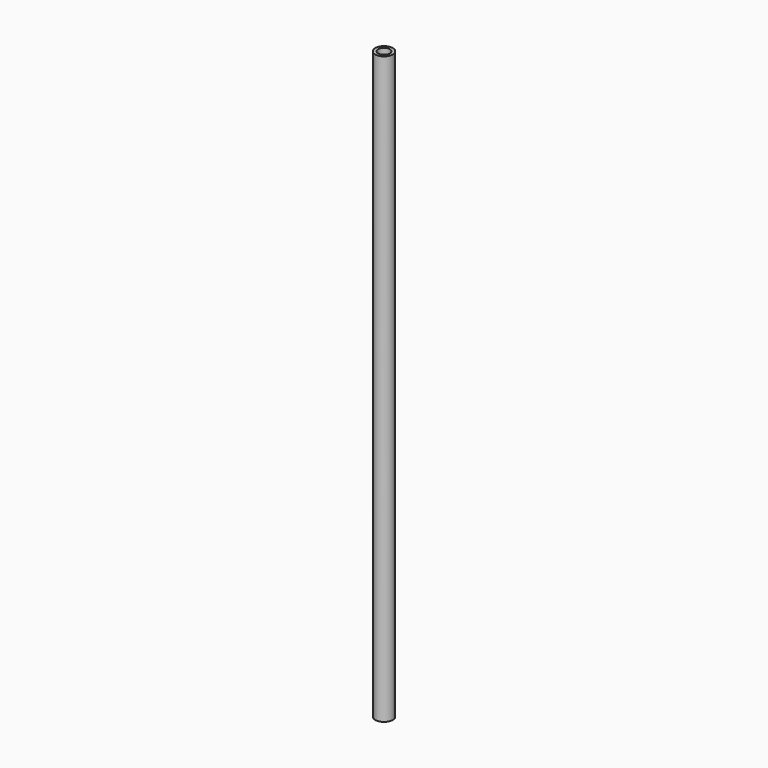
from build123d import *

# Parameters (mm, degrees)
CYLINDER_R     = 15
CYLINDER_DEPTH = 1000
THICKNESS_T    = -5


with BuildPart() as part:
    # Cylinder → Cylinder (new body)
    with BuildSketch(Plane.XY):
        Circle(CYLINDER_R)
    extrude(amount=CYLINDER_DEPTH)

    # Thickness
    thickness_openings = [part.faces().sort_by_distance(p)[0] for p in [
        (0, 0, 1000),
        (0, 0, 0),
    ]]
    offset(amount=THICKNESS_T, openings=thickness_openings)


solid = part.part
